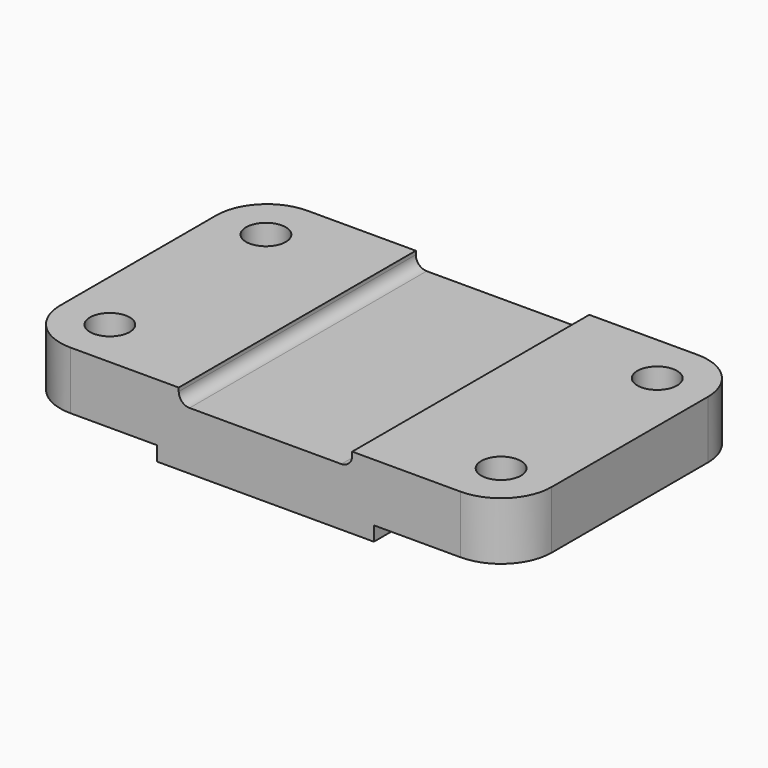
from build123d import *

# Parameters (mm, degrees)
F1_DEPTH = 16
F2_W     = 60
F2_H     = 82
F3_DEPTH = 4
F4_W     = 48
F4_H     = 82
F5_DEPTH = 4
F6_R     = 3
F7_R     = 5.5
F8_DEPTH = 20.001


with BuildPart() as f1:
    # F0 (on Top) → F1 (new body)
    with BuildSketch(Plane.XY):
        with BuildLine():
            ThreePointArc((-54, 0), (-63.899495, -4.100505), (-68, -14))
            Line((-68, -14), (-68, -68))
            ThreePointArc((-68, -68), (-63.899495, -77.899495), (-54, -82))
            Line((-54, -82), (54, -82))
            ThreePointArc((54, -82), (63.899495, -77.899495), (68, -68))
            Line((68, -68), (68, -14))
            ThreePointArc((68, -14), (63.899495, -4.100505), (54, 0))
            Line((54, 0), (-54, 0))
        make_face()
    extrude(amount=F1_DEPTH)

    # F2 (on Top) → F3 (join)
    with BuildSketch(Plane.XY):
        with Locations((0, -41)):
            Rectangle(F2_W, F2_H)
    extrude(amount=-F3_DEPTH)

    # F4 (on face) → F5 (cut)
    with BuildSketch(Plane.XY.offset(16)):
        with Locations((0, -41)):
            Rectangle(F4_W, F4_H)
    extrude(amount=-F5_DEPTH, mode=Mode.SUBTRACT)

    # F6
    f6_edges = [f1.edges().sort_by_distance(p)[0] for p in [
        (-24, -41, 12),
        (24, -41, 12),
    ]]
    fillet(f6_edges, radius=F6_R)

    # F7 (on face) → F8 (cut, through all)
    with BuildSketch(Plane.XY.offset(16)):
        with Locations((54, -14)):
            Circle(F7_R)
        with Locations((54, -68)):
            Circle(F7_R)
        with Locations((-54, -14.32929)):
            Circle(F7_R)
        with Locations((-54, -68.32929)):
            Circle(F7_R)
    extrude(amount=-F8_DEPTH, mode=Mode.SUBTRACT)


solid = f1.part
